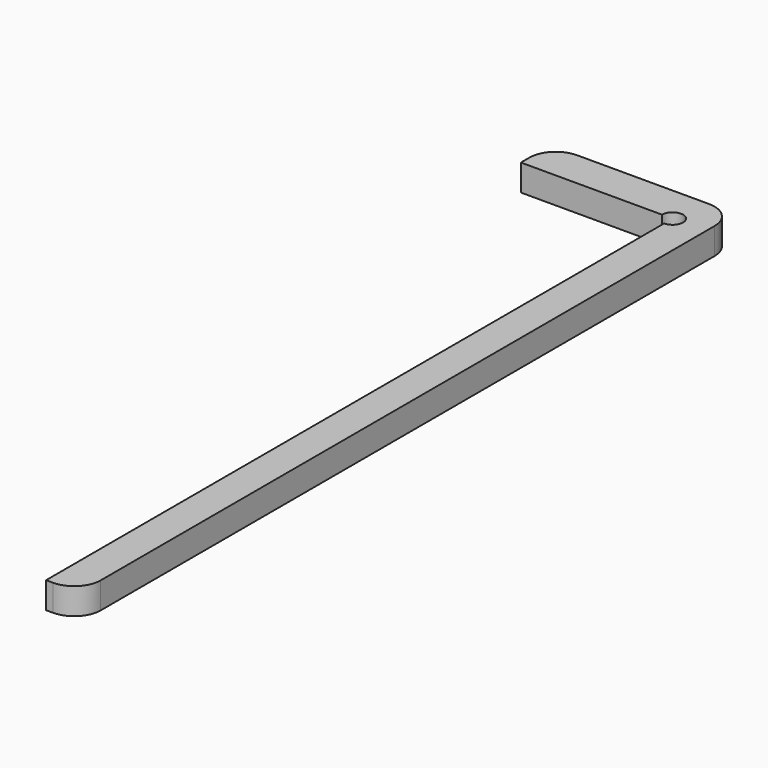
from build123d import *

# Parameters (mm, degrees)
F1_DEPTH = 5
F2_R     = 5


with BuildPart() as f1:
    # F0 (on Top) → F1 (new body)
    with BuildSketch(Plane.XY):
        with BuildLine():
            Line((11.17, -77.5), (17.5, -77.5))
            Line((17.5, -77.5), (17.5, 77.5))
            Line((17.5, 77.5), (-17.5, 77.5))
            Line((-17.5, 77.5), (-17.5, 70.5))
            Line((-17.5, 70.5), (9.17, 70.5))
            ThreePointArc((9.17, 70.5), (12.584214, 71.914214), (11.17, 68.5))
            Line((11.17, 68.5), (11.17, -77.5))
        make_face()
    extrude(amount=F1_DEPTH)

    # F2
    f2_edges = [f1.edges().sort_by_distance(p)[0] for p in [
        (17.5, 77.5, 2.5),
        (-17.5, 77.5, 2.5),
        (17.5, -77.5, 2.5),
    ]]
    fillet(f2_edges, radius=F2_R)


solid = f1.part
